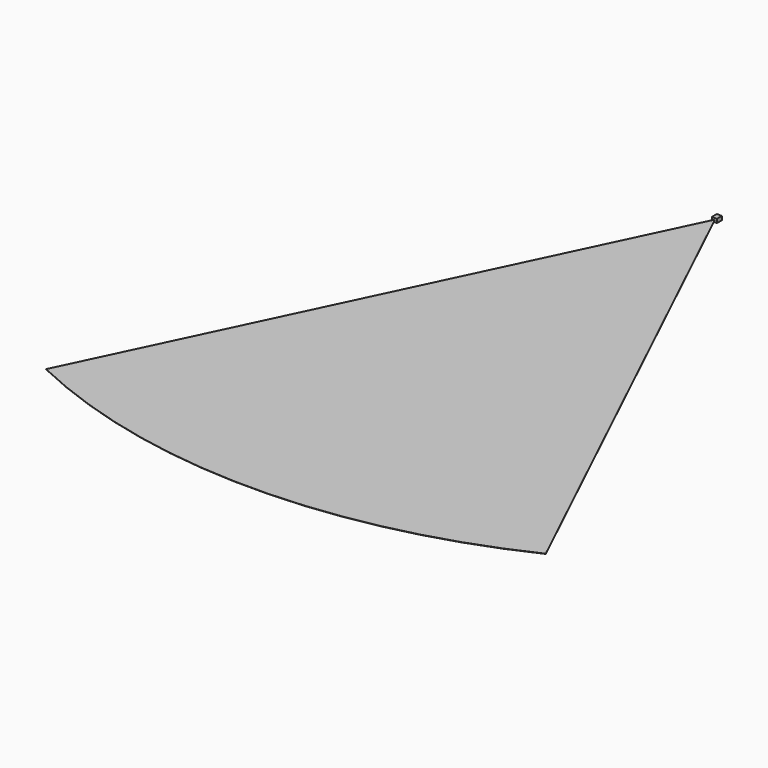
from build123d import *

# Parameters (mm, degrees)
F0_W     = 39.878
F0_H     = 29.972
F1_DEPTH = 50.038
F3_DEPTH = 0.9525


with BuildPart() as f1:
    # F0 (on Front) → F1 (new body)
    with BuildSketch(Plane.XZ):
        Rectangle(F0_W, F0_H)
    extrude(amount=F1_DEPTH)


with BuildPart() as f3:
    # F2 (on Top) → F3 (new body, symmetric)
    with BuildSketch(Plane.XY):
        with BuildLine():
            Line((1968.296735, -4170.30792), (0, -43.688))
            Line((0, -43.688), (-1968.296735, -4170.30792))
            ThreePointArc((-1968.296735, -4170.30792), (0, -4615.688), (1968.296735, -4170.30792))
        make_face()
    extrude(amount=F3_DEPTH, both=True)


solid = Compound([f1.part, f3.part])
